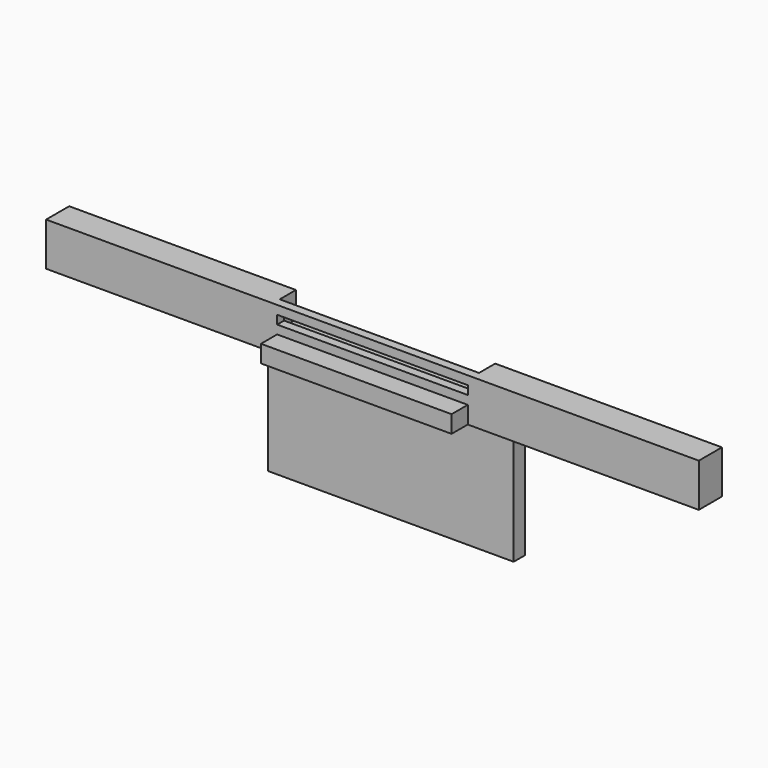
from build123d import *

# Parameters (mm, degrees)
F0_W          = 226
F0_H          = 15
F1_DEPTH      = 10
F2_W          = 66
F2_H          = 6
F3_DEPTH      = 7
F4_W          = 85
F4_H          = 49.5
F5_DEPTH      = 3
F5_DEPTH_BACK = 2
F6_W          = 69
F6_H          = 18
F7_DEPTH      = 7
F8_W          = 66
F8_H          = 3
F9_DEPTH      = 25
F10_W         = 85
F10_H         = 1
F11_DEPTH     = 3
F12_W         = 85
F12_H         = 0.5
F13_DEPTH     = 3
F14_R         = 1.5
F15_DEPTH     = 3


with BuildPart() as f1:
    # F0 (on Front) → F1 (new body)
    with BuildSketch(Plane.XZ):
        Rectangle(F0_W, F0_H)
    extrude(amount=F1_DEPTH)

    # F2 (on face) → F3 (join)
    with BuildSketch(Plane.XZ.offset(10)):
        with Locations((0, -4.5)):
            Rectangle(F2_W, F2_H)
    extrude(amount=F3_DEPTH)

    # F4 (on face) → F5 (join, two sides)
    with BuildSketch(Plane(origin=(0, 0, 0), x_dir=(-1, 0, 0), z_dir=(0, 1, 0))) as f5_sk:
        with Locations((0, -24.75)):
            Rectangle(F4_W, F4_H)
    extrude(amount=F5_DEPTH)
    extrude(f5_sk.sketch, amount=-F5_DEPTH_BACK)

    # F6 (on face) → F7 (cut)
    with BuildSketch(Plane(origin=(0, 0, 0), x_dir=(-1, 0, 0), z_dir=(0, 1, 0))):
        with Locations((0, 7.5)):
            Rectangle(F6_W, F6_H)
    extrude(amount=-F7_DEPTH, mode=Mode.SUBTRACT)

    # F8 (on face) → F9 (cut)
    with BuildSketch(Plane(origin=(0, -7, 0), x_dir=(-1, 0, 0), z_dir=(0, 1, 0))):
        with Locations((0, 3)):
            Rectangle(F8_W, F8_H)
    extrude(amount=-F9_DEPTH, mode=Mode.SUBTRACT)

    # F10 (on face) → F11 (cut)
    with BuildSketch(Plane(origin=(0, 3, 0), x_dir=(-1, 0, 0), z_dir=(0, 1, 0))):
        with Locations((0, -0.5)):
            Rectangle(F10_W, F10_H)
    extrude(amount=-F11_DEPTH, mode=Mode.SUBTRACT)

    # F12 (on face) → F13 (cut)
    with BuildSketch(Plane(origin=(0, 3, 0), x_dir=(-1, 0, 0), z_dir=(0, 1, 0))):
        with Locations((0, -1.25)):
            Rectangle(F12_W, F12_H)
    extrude(amount=-F13_DEPTH, mode=Mode.SUBTRACT)

    # F14 (on face) → F15 (join)
    with BuildSketch(Plane(origin=(0, 3, 0), x_dir=(-1, 0, 0), z_dir=(0, 1, 0))):
        with Locations((6, -6)):
            Circle(F14_R)
        with Locations((6, -12)):
            Circle(F14_R)
    extrude(amount=F15_DEPTH)


solid = f1.part
